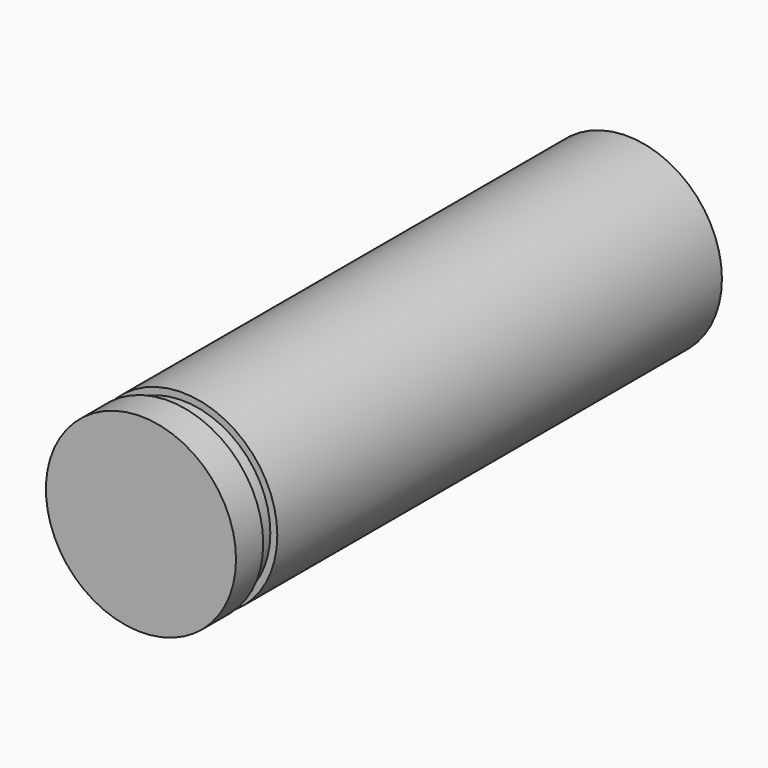
from build123d import *

# Parameters (mm, degrees)
F0_R     = 3.9751
F1_DEPTH = 25.4
F3_R     = 7.385751
F3_R_2   = 3.683
F4_DEPTH = 0.7366


with BuildPart() as f1:
    # F0 (on Front) → F1 (new body)
    with BuildSketch(Plane.XZ):
        Circle(F0_R)
    extrude(amount=F1_DEPTH)

    # F3 (on offset) → F4 (cut)
    with BuildSketch(Plane.XZ.offset(23.241)):
        Circle(F3_R)
        Circle(F3_R_2, mode=Mode.SUBTRACT)
    extrude(amount=F4_DEPTH, mode=Mode.SUBTRACT)


solid = f1.part
